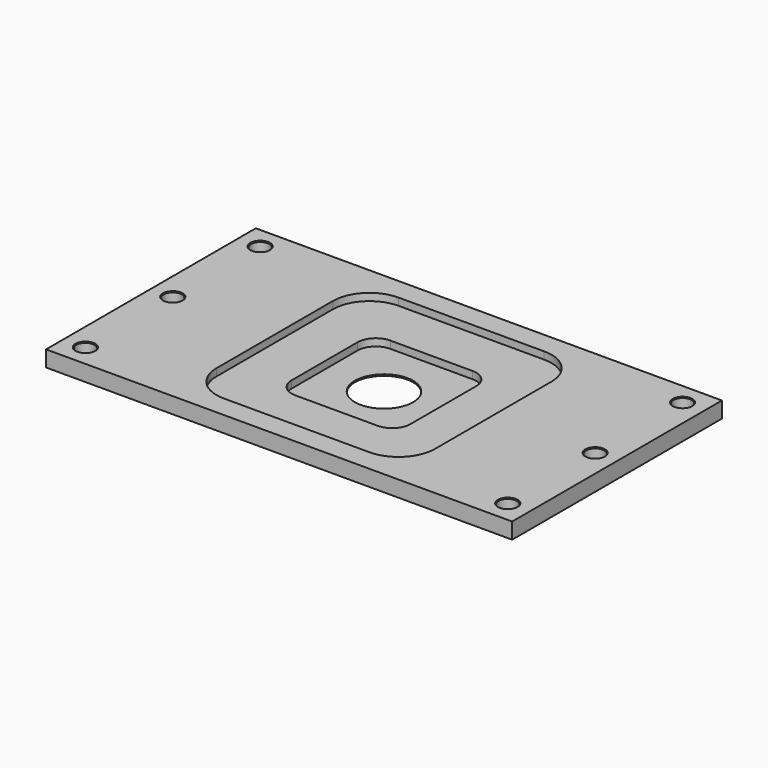
from build123d import *

# Parameters (mm, degrees)
F0_W           = 81.28
F0_H           = 45.72
F1_DEPTH       = 2.794
F3_DEPTH       = 1.27
F4_DEPTH       = 2.54
F2_R           = 5.08
F5_DEPTH       = 2.795
F6_D           = 3.175
F6_CSINK_D     = 3.429
F6_CSINK_ANGLE = 82
F8_D           = 0.01016
F8_DEPTH       = 7.62


with BuildPart() as f1:
    # F0 (on Top) → F1 (new body)
    with BuildSketch(Plane.XY):
        Rectangle(F0_W, F0_H)
    extrude(amount=F1_DEPTH)

    # F2 (on face) → F3 (cut)
    with BuildSketch(Plane.XY.offset(2.794)):
        with BuildLine():
            ThreePointArc((19.05, 12.7), (17.190128, 17.190128), (12.7, 19.05))
            Line((12.7, 19.05), (-12.7, 19.05))
            ThreePointArc((-12.7, 19.05), (-17.190128, 17.190128), (-19.05, 12.7))
            Line((-19.05, 12.7), (-19.05, -12.7))
            ThreePointArc((-19.05, -12.7), (-17.190128, -17.190128), (-12.7, -19.05))
            Line((-12.7, -19.05), (12.7, -19.05))
            ThreePointArc((12.7, -19.05), (17.190128, -17.190128), (19.05, -12.7))
            Line((19.05, -12.7), (19.05, 12.7))
        make_face()
        with BuildLine():
            Line((-7.1755, 10.3505), (7.1755, 10.3505))
            ThreePointArc((7.1755, 10.3505), (9.420564, 9.420564), (10.3505, 7.1755))
            Line((10.3505, 7.1755), (10.3505, -7.1755))
            ThreePointArc((10.3505, -7.1755), (9.420564, -9.420564), (7.1755, -10.3505))
            Line((7.1755, -10.3505), (-7.1755, -10.3505))
            ThreePointArc((-7.1755, -10.3505), (-9.420564, -9.420564), (-10.3505, -7.1755))
            Line((-10.3505, -7.1755), (-10.3505, 7.1755))
            ThreePointArc((-10.3505, 7.1755), (-9.420564, 9.420564), (-7.1755, 10.3505))
        make_face(mode=Mode.SUBTRACT)
    extrude(amount=-F3_DEPTH, mode=Mode.SUBTRACT)

    # F3_face (on face) → F4 (cut)
    with BuildSketch(Plane.XY.offset(2.794)):
        with BuildLine():
            Line((7.1755, 10.3505), (-7.1755, 10.3505))
            ThreePointArc((-7.1755, 10.3505), (-9.420564, 9.420564), (-10.3505, 7.1755))
            Line((-10.3505, 7.1755), (-10.3505, -7.1755))
            ThreePointArc((-10.3505, -7.1755), (-9.420564, -9.420564), (-7.1755, -10.3505))
            Line((-7.1755, -10.3505), (7.1755, -10.3505))
            ThreePointArc((7.1755, -10.3505), (9.420564, -9.420564), (10.3505, -7.1755))
            Line((10.3505, -7.1755), (10.3505, 7.1755))
            ThreePointArc((10.3505, 7.1755), (9.420564, 9.420564), (7.1755, 10.3505))
        make_face()
    extrude(amount=-F4_DEPTH, mode=Mode.SUBTRACT)

    # F2 (on face) → F5 (cut, through all)
    with BuildSketch(Plane.XY.offset(2.794)):
        Circle(F2_R)
    extrude(amount=-F5_DEPTH, mode=Mode.SUBTRACT)

    # F6 (through all)
    with Locations(Plane.XY.offset(2.794)):
        with Locations((-36.83, 19.05), (-36.83, -19.05), (36.83, -19.05), (36.83, 19.05), (-36.83, 0), (36.83, 0)):
            CounterSinkHole(F6_D / 2, F6_CSINK_D / 2, counter_sink_angle=F6_CSINK_ANGLE)

    # F8
    with Locations(Plane.XY.offset(2.794)):
        with Locations((-6.35, 10.541), (0, 10.541), (6.35, 10.541), (6.35, -10.541), (0, -10.541), (-6.35, -10.541)):
            Hole(F8_D / 2, depth=F8_DEPTH)


solid = f1.part
